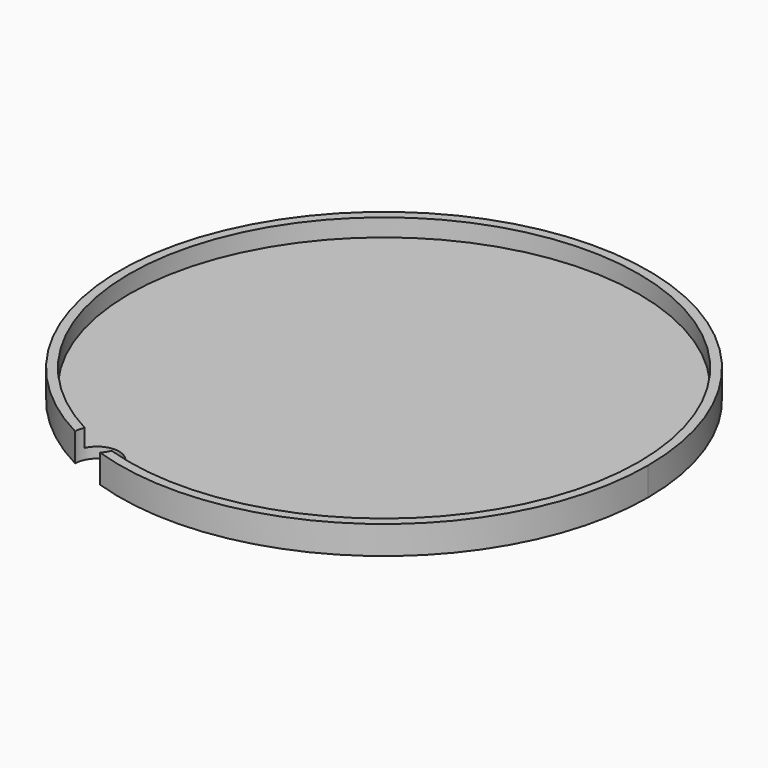
from build123d import *

# Parameters (mm, degrees)
F0_R     = 29.9
F1_DEPTH = 1.2
F2_R     = 29.9
F2_R_2   = 28.85
F3_DEPTH = 2
F4_R     = 2.5
F5_DEPTH = 3.2


with BuildPart() as f1:
    # F0 (on Top) → F1 (new body)
    with BuildSketch(Plane.XY):
        Circle(F0_R)
    extrude(amount=F1_DEPTH)

    # F2 (on face) → F3 (join)
    with BuildSketch(Plane.XY.offset(1.2)):
        Circle(F2_R)
        Circle(F2_R_2, mode=Mode.SUBTRACT)
    extrude(amount=F3_DEPTH)

    # F4 (on face) → F5 (cut)
    with BuildSketch(Plane.XY.offset(3.2)):
        with Locations((-11.251354, -26.56557)):
            Circle(F4_R)
    extrude(amount=-F5_DEPTH, mode=Mode.SUBTRACT)


solid = f1.part
